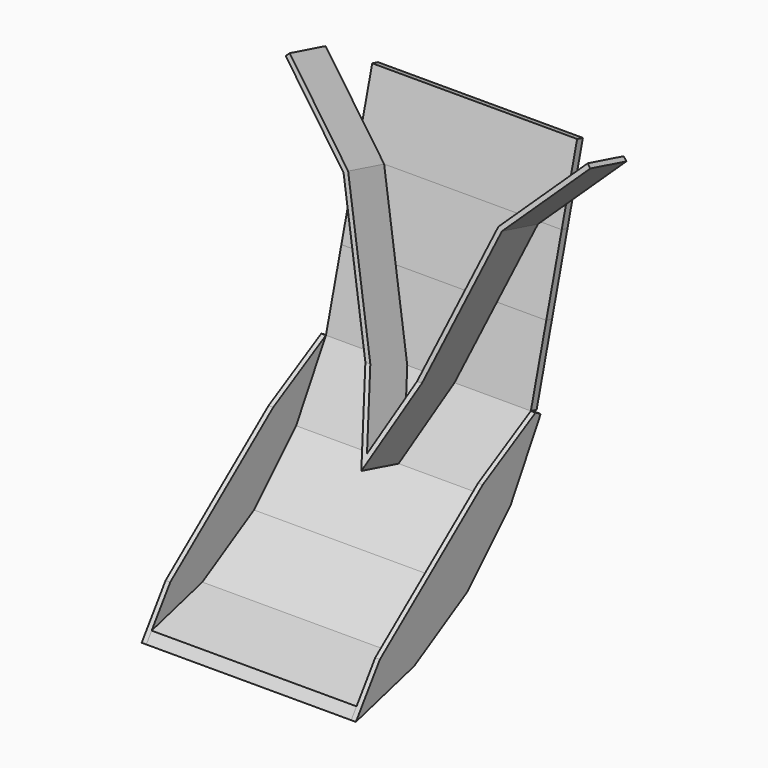
from build123d import *

# Parameters (mm, degrees)
F2_DEPTH       = 110
F4_DEPTH       = 110
F6_DEPTH       = 110
F8_DEPTH       = 110
F10_DEPTH      = 110
F12_DEPTH      = 110
F14_DEPTH      = 5
F17_DEPTH      = 110
F20_DEPTH      = 119
F22_DEPTH      = 273.5514659616
F22_DEPTH_BACK = 53.5514659616


with BuildPart() as f2:
    # F1 (on Right) → F2 (new body, symmetric)
    with BuildSketch(Plane.YZ):
        Polygon((7.1386122285, 10.194994825), (0, 0), (77.2740661031, 20.7055236082), (75.2035137423, 28.4329302185), align=None)
    extrude(amount=F2_DEPTH, both=True)


with BuildPart() as f4:
    # F3 (on Right) → F4 (new body, symmetric)
    with BuildSketch(Plane.YZ):
        Polygon((144.4855460451, 68.4329302185), (75.2035137423, 28.4329302185), (79.2035137423, 21.5047269882), (148.4855460451, 61.5047269882), align=None)
    extrude(amount=F4_DEPTH, both=True)


with BuildPart() as f6:
    # F5 (on Right) → F6 (new body, symmetric)
    with BuildSketch(Plane.YZ):
        Polygon((201.05408854, 125.0014727134), (144.4855460451, 68.4329302185), (150.1424002946, 62.776075969), (206.7109427895, 119.3446184639), align=None)
    extrude(amount=F6_DEPTH, both=True)


with BuildPart() as f8:
    # F7 (on Right) → F8 (new body, symmetric)
    with BuildSketch(Plane.YZ):
        Polygon((241.05408854, 194.2835050162), (201.05408854, 125.0014727134), (207.9822917703, 121.0014727134), (247.9822917703, 190.2835050162), align=None)
    extrude(amount=F8_DEPTH, both=True)


with BuildPart() as f10:
    # F9 (on Right) → F10 (new body, symmetric)
    with BuildSketch(Plane.YZ):
        Polygon((261.7596121482, 271.5575711193), (241.05408854, 194.2835050162), (248.7814951503, 192.2129526554), (269.4870187585, 269.4870187585), align=None)
    extrude(amount=F10_DEPTH, both=True)


with BuildPart() as f12:
    # F11 (on Right) → F12 (new body, symmetric)
    with BuildSketch(Plane.YZ):
        Polygon((282.4651357564, 348.8316372224), (261.7596121482, 271.5575711193), (269.4870187585, 269.4870187585), (290.1925423667, 346.7610848616), align=None)
    extrude(amount=F12_DEPTH, both=True)


with BuildPart() as f14:
    # F13 (on face) → F14 (new body)
    with BuildSketch(Plane.YZ.offset(110)):
        Polygon((32.1625771399, 45.932920434), (0, 0), (78.2913984832, 20.9781169979), (149.3976613041, 62.0313369786), (207.4556817799, 120.0893574544), (247.9822917703, 190.2835050162), (241.05408854, 194.2835050162), (170.2120928418, 154.900309174), align=None)
    extrude(amount=F14_DEPTH)


with BuildPart() as f15_1:
    # F15: instance of F14
    add(f14.part.mirror(Plane.YZ))


with BuildPart() as f17:
    # F16 (on Right) → F17 (new body, symmetric)
    with BuildSketch(Plane.YZ):
        Polygon((303.1706593646, 426.1057033256), (282.4651357564, 348.8316372224), (290.1925423667, 346.7610848616), (310.8980659749, 424.0351509647), align=None)
    extrude(amount=F17_DEPTH, both=True)


with BuildPart() as f20:
    # F19 (on offset) → F20 (new body, through all)
    with BuildSketch(Plane(origin=(0, 61.3904768684, -16.4495286999), x_dir=(1, 0, 0), z_dir=(0, -0.9659258263, 0.2588190451))):
        Polygon((-163.5504659616, 486.5323056132), (-85, 407.3140967376), (0, 172.778778028), (85, 407.3140967376), (163.5504659616, 486.5323056132), (160, 490.0528441311), (80.6743327561, 410.0528441311), (0, 187.4530753706), (-80.6743327561, 410.0528441311), (-160, 490.0528441311), align=None)
    extrude(amount=-F20_DEPTH)

    # F21 (on face) → F22 (cut, two sides)
    with BuildSketch(Plane.YZ.offset(110)) as f22_sk:
        Polygon((369.9040717553, 104.2930381831), (241.05408854, 194.2835050162), (201.05408854, 125.0014727134), (274.6826482486, 80.5175428409), align=None)
        Polygon((194.4615059111, 213.5827846471), (260.747820074, 460.9666769495), (140.7673657296, 543.3600070076), (18.2077363489, 145.2441187697), (128.9983988164, 100.1973571377), align=None)
    extrude(amount=-F22_DEPTH, mode=Mode.SUBTRACT)
    extrude(f22_sk.sketch, amount=F22_DEPTH_BACK, mode=Mode.SUBTRACT)


solid = Compound([f2.part, f4.part, f6.part, f8.part, f10.part, f12.part, f14.part, f15_1.part, f17.part, f20.part])
